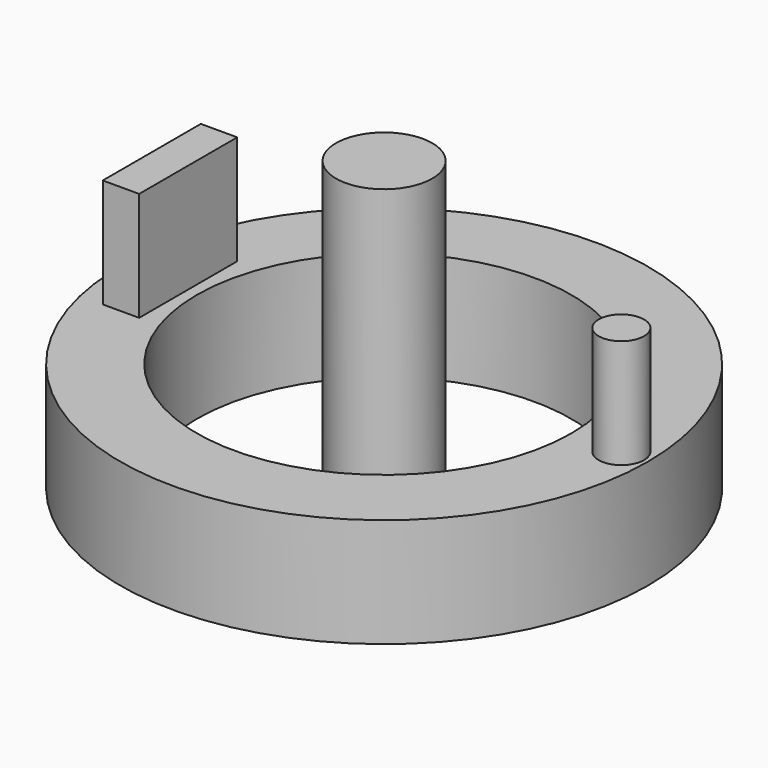
from build123d import *

# Parameters (mm, degrees)
F0_R     = 11.018192
F1_DEPTH = 66
F0_R_2   = 60.479009
F0_R_3   = 42.927456
F2_DEPTH = 25
F3_W     = 8.337222
F3_H     = 28.083282
F4_DEPTH = 25
F5_R     = 5.197631
F6_DEPTH = 25


with BuildPart() as f1:
    # F0 (on Top) → F1 (new body)
    with BuildSketch(Plane.XY):
        Circle(F0_R)
    extrude(amount=F1_DEPTH)


with BuildPart() as f2:
    # F0 (on Top) → F2 (new body)
    with BuildSketch(Plane.XY):
        Circle(F0_R_2)
        Circle(F0_R_3, mode=Mode.SUBTRACT)
    extrude(amount=F2_DEPTH)

    # F3 (on face) → F4 (join)
    with BuildSketch(Plane.XY.offset(25)):
        with Locations((-49.584545, 0.658201)):
            Rectangle(F3_W, F3_H)
    extrude(amount=F4_DEPTH)

    # F5 (on face) → F6 (join)
    with BuildSketch(Plane.XY.offset(25)):
        with Locations((54.353569, 0)):
            Circle(F5_R)
    extrude(amount=F6_DEPTH)


solid = Compound([f1.part, f2.part])
